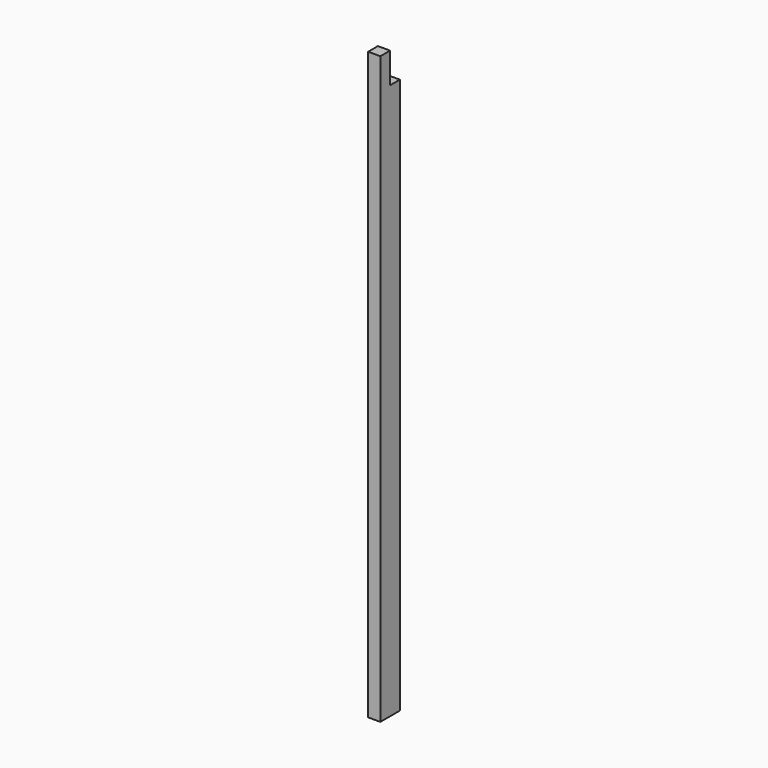
from build123d import *

# Parameters (mm, degrees)
F0_W          = 50
F0_H          = 100
F1_DEPTH      = 2400
F2_W          = 50
F2_H          = 125
F3_DEPTH      = 25
F3_DEPTH_BACK = 25


with BuildPart() as f1:
    # F0 (on Top) → F1 (new body)
    with BuildSketch(Plane.XY):
        Rectangle(F0_W, F0_H)
    extrude(amount=F1_DEPTH)

    # F2 (on Right) → F3 (cut, two sides)
    with BuildSketch(Plane.YZ) as f3_sk:
        with Locations((25, 2337.5)):
            Rectangle(F2_W, F2_H)
    extrude(amount=-F3_DEPTH, mode=Mode.SUBTRACT)
    extrude(f3_sk.sketch, amount=F3_DEPTH_BACK, mode=Mode.SUBTRACT)


solid = f1.part
